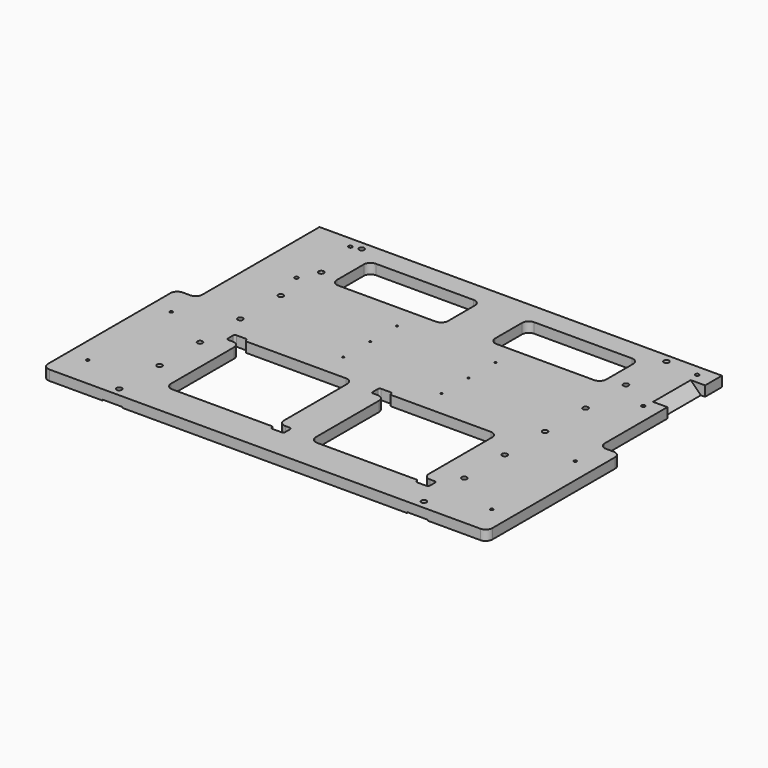
from build123d import *

# Parameters (mm, degrees)
F0_W            = 3352.8
F0_H            = 2413
F1_DEPTH        = 76.2
F2_W            = 152.4
F2_H            = 19.05
F2_H_2          = 6.35
F3_DEPTH        = 2413.001
F4_W            = 165.1
F4_H            = 1162.05
F5_DEPTH        = 76.201
F6_R            = 50.8
F8_DEPTH        = 76.201
F10_DEPTH       = 76.201
F13_DEPTH       = 177.8
F15_D           = 13.49248
F15_DEPTH       = 38.1
F15_TIP         = 4.0535499425
F17_D           = 26.9748
F17_CBORE_D     = 39.624
F17_CBORE_DEPTH = 26.924
F19_D           = 22.225
F21_D           = 28.17876
F23_D           = 28.17876


with BuildPart() as f1:
    # F0 (on Top) → F1 (new body)
    with BuildSketch(Plane.XY):
        Rectangle(F0_W, F0_H)
    extrude(amount=-F1_DEPTH)

    # F2 (on face) → F3 (cut, through all)
    with BuildSketch(Plane.XZ.offset(1206.5)):
        with Locations((-1149.35, -85.725)):
            Rectangle(F2_W, F2_H)
        with Locations((1149.35, -85.725)):
            Rectangle(F2_W, F2_H)
        with Locations((1149.35, -73.025)):
            Rectangle(F2_W, F2_H_2)
        with Locations((-1149.35, -73.025)):
            Rectangle(F2_W, F2_H_2)
    extrude(amount=-F3_DEPTH, mode=Mode.SUBTRACT)

    # F4 (on face) → F5 (cut, through all)
    with BuildSketch(Plane.XY):
        with Locations((-1600.2, 631.825)):
            Rectangle(F4_W, F4_H)
        with Locations((1600.2, 631.825)):
            Rectangle(F4_W, F4_H)
    extrude(amount=-F5_DEPTH, mode=Mode.SUBTRACT)

    # F6
    f6_edges = [f1.edges().sort_by_distance(p)[0] for p in [
        (-1676.4, -1206.5, -38.1),
        (-1676.4, 50.8, -38.1),
        (-1517.65, 50.8, -38.1),
        (1517.65, 50.8, -38.1),
        (1676.4, 50.8, -38.1),
        (1676.4, -1206.5, -38.1),
    ]]
    fillet(f6_edges, radius=F6_R)

    # F7 (on face) → F8 (cut, through all)
    with BuildSketch(Plane.XY):
        with BuildLine():
            ThreePointArc((-1016, 742.95), (-1001.1210244843, 707.0289755157), (-965.2, 692.15))
            Line((-965.2, 692.15), (-228.6, 692.15))
            ThreePointArc((-228.6, 692.15), (-192.6789755157, 707.0289755157), (-177.8, 742.95))
            Line((-177.8, 742.95), (-177.8, 996.95))
            ThreePointArc((-177.8, 996.95), (-192.6789755157, 1032.8710244843), (-228.6, 1047.75))
            Line((-228.6, 1047.75), (-965.2, 1047.75))
            ThreePointArc((-965.2, 1047.75), (-1001.1210244843, 1032.8710244843), (-1016, 996.95))
            Line((-1016, 996.95), (-1016, 742.95))
        make_face()
        with BuildLine():
            ThreePointArc((965.2, 692.15), (1001.1210244843, 707.0289755157), (1016, 742.95))
            Line((1016, 742.95), (1016, 996.95))
            ThreePointArc((1016, 996.95), (1001.1210244843, 1032.8710244843), (965.2, 1047.75))
            Line((965.2, 1047.75), (228.6, 1047.75))
            ThreePointArc((228.6, 1047.75), (192.6789755157, 1032.8710244843), (177.8, 996.95))
            Line((177.8, 996.95), (177.8, 742.95))
            ThreePointArc((177.8, 742.95), (192.6789755157, 707.0289755157), (228.6, 692.15))
            Line((228.6, 692.15), (965.2, 692.15))
        make_face()
    extrude(amount=-F8_DEPTH, mode=Mode.SUBTRACT)

    # F9 (on face) → F10 (cut, through all)
    with BuildSketch(Plane.XY):
        with BuildLine():
            ThreePointArc((-952.5, -901.7), (-937.6210244843, -937.6210244843), (-901.7, -952.5))
            Line((-901.7, -952.5), (-152.4, -952.5))
            ThreePointArc((-152.4, -952.5), (-143.4197438789, -956.2197438789), (-139.7, -965.2))
            ThreePointArc((-139.7, -965.2), (-135.9802561211, -974.1802561211), (-127, -977.9))
            Line((-127, -977.9), (-53.975, -977.9))
            ThreePointArc((-53.975, -977.9), (-44.9947438789, -974.1802561211), (-41.275, -965.2))
            Line((-41.275, -965.2), (-41.275, -914.4))
            ThreePointArc((-41.275, -914.4), (-44.9947438789, -905.4197438789), (-53.975, -901.7))
            Line((-53.975, -901.7), (-88.9, -901.7))
            ThreePointArc((-88.9, -901.7), (-124.8210244843, -886.8210244843), (-139.7, -850.9))
            Line((-139.7, -850.9), (-139.7, -254))
            ThreePointArc((-139.7, -254), (-154.5789755157, -218.0789755157), (-190.5, -203.2))
            Line((-190.5, -203.2), (-939.8, -203.2))
            ThreePointArc((-939.8, -203.2), (-948.7802561211, -199.4802561211), (-952.5, -190.5))
            ThreePointArc((-952.5, -190.5), (-956.2197438789, -181.5197438789), (-965.2, -177.8))
            Line((-965.2, -177.8), (-1038.225, -177.8))
            ThreePointArc((-1038.225, -177.8), (-1047.2052561211, -181.5197438789), (-1050.925, -190.5))
            Line((-1050.925, -190.5), (-1050.925, -241.3))
            ThreePointArc((-1050.925, -241.3), (-1047.2052561211, -250.2802561211), (-1038.225, -254))
            Line((-1038.225, -254), (-1003.3, -254))
            ThreePointArc((-1003.3, -254), (-967.3789755157, -268.8789755157), (-952.5, -304.8))
            Line((-952.5, -304.8), (-952.5, -901.7))
        make_face()
        with BuildLine():
            Line((139.7, -304.8), (139.7, -901.7))
            ThreePointArc((139.7, -901.7), (154.5789755157, -937.6210244843), (190.5, -952.5))
            Line((190.5, -952.5), (939.8, -952.5))
            ThreePointArc((939.8, -952.5), (948.7802561211, -956.2197438789), (952.5, -965.2))
            ThreePointArc((952.5, -965.2), (956.2197438789, -974.1802561211), (965.2, -977.9))
            Line((965.2, -977.9), (1038.225, -977.9))
            ThreePointArc((1038.225, -977.9), (1047.2052561211, -974.1802561211), (1050.925, -965.2))
            Line((1050.925, -965.2), (1050.925, -914.4))
            ThreePointArc((1050.925, -914.4), (1047.2052561211, -905.4197438789), (1038.225, -901.7))
            Line((1038.225, -901.7), (1003.3, -901.7))
            ThreePointArc((1003.3, -901.7), (967.3789755157, -886.8210244843), (952.5, -850.9))
            Line((952.5, -850.9), (952.5, -254))
            ThreePointArc((952.5, -254), (937.6210244843, -218.0789755157), (901.7, -203.2))
            Line((901.7, -203.2), (152.4, -203.2))
            ThreePointArc((152.4, -203.2), (143.4197438789, -199.4802561211), (139.7, -190.5))
            ThreePointArc((139.7, -190.5), (135.9802561211, -181.5197438789), (127, -177.8))
            Line((127, -177.8), (53.975, -177.8))
            ThreePointArc((53.975, -177.8), (44.9947438789, -181.5197438789), (41.275, -190.5))
            Line((41.275, -190.5), (41.275, -241.3))
            ThreePointArc((41.275, -241.3), (44.9947438789, -250.2802561211), (53.975, -254))
            Line((53.975, -254), (88.9, -254))
            ThreePointArc((88.9, -254), (124.8210244843, -268.8789755157), (139.7, -304.8))
        make_face()
    extrude(amount=-F10_DEPTH, mode=Mode.SUBTRACT)

    # F12 (on offset) → F13 (cut, symmetric)
    with BuildSketch(Plane(origin=(0, 869.95, 0), x_dir=(-1, 0, 0), z_dir=(0, 1, 0))):
        Polygon((-1485.9129063403, -76.2), (-1409.7, 0), (-1485.9129063403, 0), (-1554.1082620621, 0), (-1554.1082620621, -76.2), align=None)
    extrude(amount=F13_DEPTH, both=True, mode=Mode.SUBTRACT)

    # F15
    with Locations(Plane.XY):
        with Locations((-371.348, 504.698), (-371.348, 250.698), (-371.348, -3.302), (371.348, 504.698), (371.348, 250.698), (371.348, -3.302)):
            Hole(F15_D / 2, depth=F15_DEPTH)
            with Locations((0, 0, -(F15_DEPTH + F15_TIP / 2))):  # 118° drill point
                Cone(0, F15_D / 2, F15_TIP, mode=Mode.SUBTRACT)

    # F17 (through all)
    with Locations(Plane.XY):
        with Locations((-1149.35, -1143), (-1149.35, -762), (-1149.35, -381), (-1149.35, 0), (-1149.35, 381), (-1149.35, 762), (-1149.35, 1143), (1149.35, 1143), (1149.35, 762), (1149.35, 381), (1149.35, 0), (1149.35, -381), (1149.35, -762), (1149.35, -1143)):
            CounterBoreHole(F17_D / 2, F17_CBORE_D / 2, F17_CBORE_DEPTH)

    # F19 (through all)
    with Locations(Plane.XY):
        with Locations((-1524, -184.15), (-1524, -971.55), (1524, -184.15), (1524, -971.55)):
            Hole(F19_D / 2)

    # F21 (through all)
    with Locations(Plane.XY):
        with Locations((1397, 1123.95), (1397, 615.95)):
            Hole(F21_D / 2)

    # F23 (through all)
    with Locations(Plane.XY):
        with Locations((-1219.2, 1123.95), (-1219.2, 615.95)):
            Hole(F23_D / 2)


solid = f1.part
